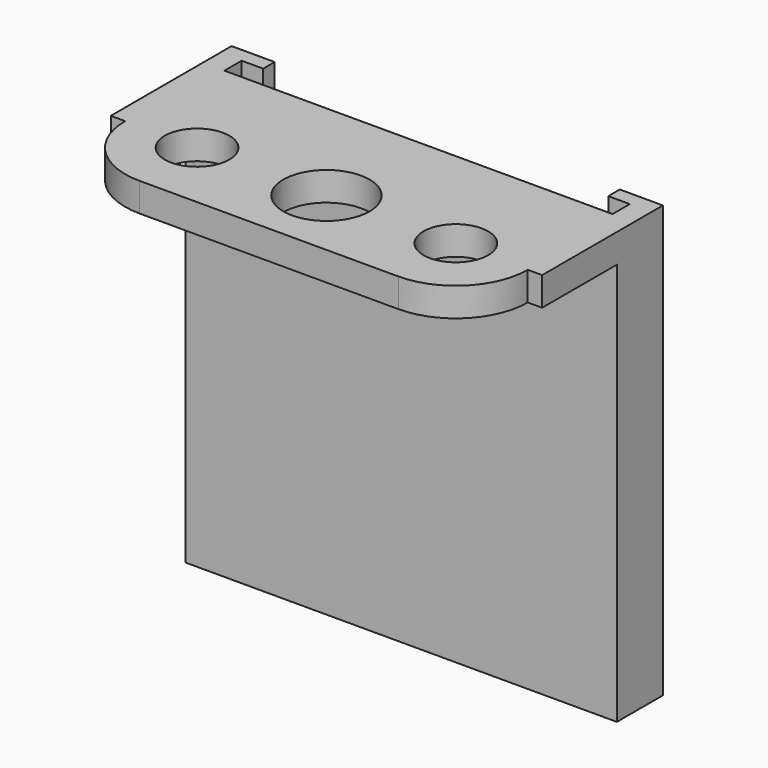
from build123d import *

# Parameters (mm, degrees)
SKETCH136_R          = 2.25
SKETCH136_R_2        = 3
PAD082_DEPTH         = 30
POCKET029_DEPTH      = 28
SKETCH138_W          = 11.5
SKETCH138_H          = 28
POCKET030_DEPTH      = 15.001
POCKET030_DEPTH_BACK = 15.001


with BuildPart() as part:
    # Sketch136 → Pad082 (new body)
    with BuildSketch(Plane.XY):
        with BuildLine():
            Line((-9, -5), (9, -5))
            ThreePointArc((9, -5), (12.535534, -3.535534), (14, 0))
            Line((15, 0), (14, 0))
            Line((15, 0), (15, 10.5))
            Line((-15, 10.5), (15, 10.5))
            Line((-15, 0), (-15, 10.5))
            Line((-15, 0), (-14, 0))
            ThreePointArc((-14, 0), (-12.535534, -3.535534), (-9, -5))
        make_face()
        with Locations((-9, 0)):
            Circle(SKETCH136_R, mode=Mode.SUBTRACT)
        with Locations((9, 0)):
            Circle(SKETCH136_R, mode=Mode.SUBTRACT)
        Circle(SKETCH136_R_2, mode=Mode.SUBTRACT)
    extrude(amount=-PAD082_DEPTH)

    # Sketch137 → Pocket029 (cut)
    with BuildSketch(Plane.XY):
        Polygon((-12, 10.5), (-12, 9.5), (-13.5, 9.5), (-13.5, 8), (13.5, 8), (13.5, 9.5), (12, 9.5), (12, 10.5), align=None)
    extrude(amount=-POCKET029_DEPTH, mode=Mode.SUBTRACT)

    # Sketch138 → Pocket030 (cut, two sides)
    with BuildSketch(Plane.YZ) as pocket030_sk:
        with Locations((0.75, -16)):
            Rectangle(SKETCH138_W, SKETCH138_H)
    extrude(amount=-POCKET030_DEPTH, mode=Mode.SUBTRACT)
    extrude(pocket030_sk.sketch, amount=POCKET030_DEPTH_BACK, mode=Mode.SUBTRACT)


with BuildPart() as part_1:
    # Body119 placement: moved
    add(part.part.moved(Location((0, 32, -2))))


solid = part_1.part
